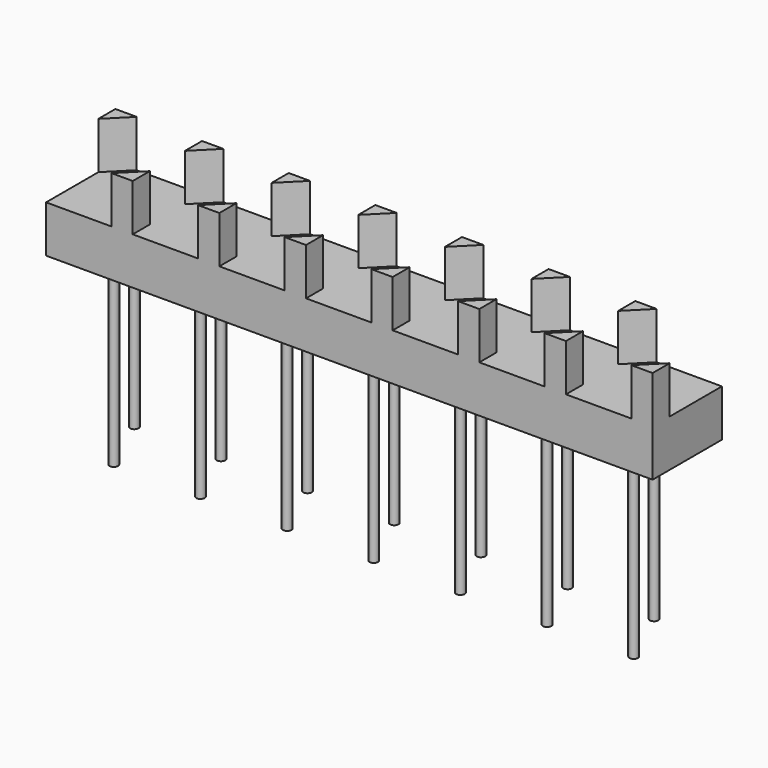
from build123d import *

# Parameters (mm, degrees)
SKETCH_W            = 10.15
SKETCH_H            = 10.15
PAD_DEPTH           = 5.5
PAD001_DEPTH        = 5.5
SKETCH003_R         = 0.5
PAD003_DEPTH        = 20
LINEARPATTERN_COUNT = 7
LINEARPATTERN_PITCH = 10.15


with BuildPart() as part:
    # Sketch → Pad (new body)
    with BuildSketch(Plane.XY):
        Rectangle(SKETCH_W, SKETCH_H)
    pad = extrude(amount=PAD_DEPTH)

    # Sketch001 (on Face6 of Pad) → Pad001 (join)
    with BuildSketch(Plane.XY.offset(5.5)):
        Polygon((-5.075, 2.575), (-2.575, 5.075), (-5.075, 5.075), align=None)
        Polygon((2.575, -5.075), (5.075, -5.075), (5.075, -2.575), align=None)
    pad001 = extrude(amount=PAD001_DEPTH)

    # Sketch003 (on Face4 of Pad001) → Pad003 (join)
    with BuildSketch(Plane(origin=(0, 0, 0), x_dir=(1, 0, 0), z_dir=(0, 0, -1))):
        with Locations((1.6, 3.5)):
            Circle(SKETCH003_R)
        with Locations((-1.6, -3.5)):
            Circle(SKETCH003_R)
    pad003 = extrude(amount=PAD003_DEPTH)

    # LinearPattern: Pad, Pad001, Pad003 ×7
    with Locations(*[(i * LINEARPATTERN_PITCH, 0, 0) for i in range(1, LINEARPATTERN_COUNT)]):
        add(pad)
        add(pad001)
        add(pad003)


with BuildPart() as part_1:
    # Body placement: moved
    add(part.part.moved(Location((0, 0, 16.5))))


solid = part_1.part
